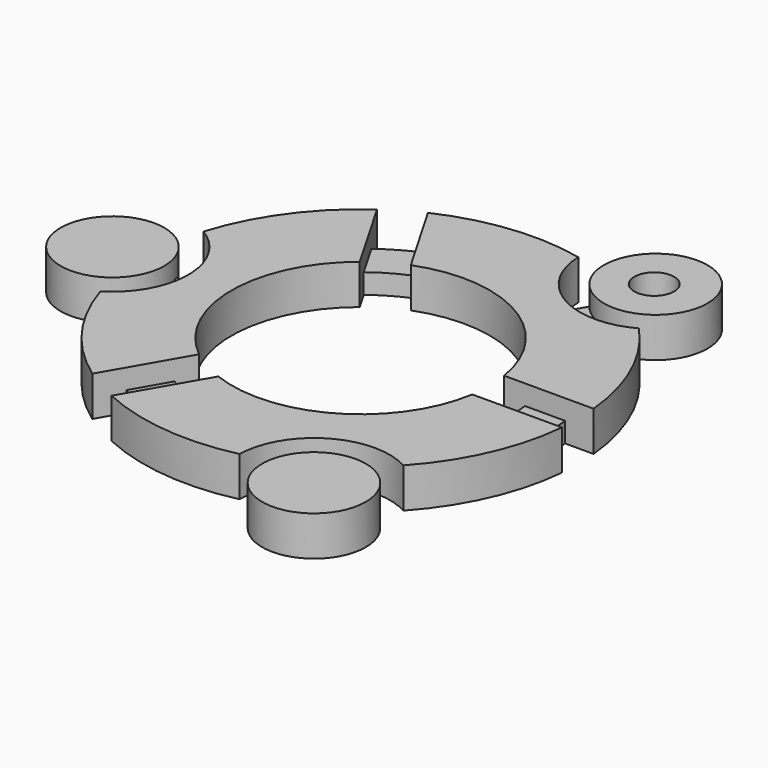
from build123d import *

# Parameters (mm, degrees)
CYLINDER008_R               = 2
CYLINDER008_DEPTH           = 10
BOX_W                       = 10
BOX_H                       = 4
BOX_DEPTH                   = 2
BOX_PLACEMENT_ANGLE         = 60
ARRAY001_COUNT              = 3
CYLINDER007_W               = 15
CYLINDER007_H               = 2
CYLINDER007_ANGLE           = 60
CYLINDER007_PLACEMENT_ANGLE = 95
CYLINDER006_W               = 19
CYLINDER006_H               = 2
CYLINDER006_ANGLE           = 60
CYLINDER006_PLACEMENT_ANGLE = 95
CYLINDER005_W               = 15
CYLINDER005_H               = 2
CYLINDER005_ANGLE           = 60
CYLINDER005_PLACEMENT_ANGLE = 211
CYLINDER004_W               = 19
CYLINDER004_H               = 2
CYLINDER004_ANGLE           = 60
CYLINDER004_PLACEMENT_ANGLE = 211
CYLINDER003_W               = 15
CYLINDER003_H               = 2
CYLINDER003_ANGLE           = 60
CYLINDER003_PLACEMENT_ANGLE = -35
CYLINDER002_W               = 19
CYLINDER002_H               = 2
CYLINDER002_ANGLE           = 60
CYLINDER002_PLACEMENT_ANGLE = -35
SKETCH001_R                 = 5.198312
PAD_DEPTH                   = 4
ARRAY_COUNT                 = 3


with BuildPart() as cilindro007:
    # Cylinder008 → Cylinder008 (new body)
    with BuildSketch(Plane(origin=(-0.25, 15, -4), x_dir=(1, 0, 0), z_dir=(0, 0, 1))):
        Circle(CYLINDER008_R)
    extrude(amount=CYLINDER008_DEPTH)


with BuildPart() as array001:
    # Box → Box (new body)
    with BuildSketch(Plane.XY):
        with Locations((5, 2)):
            Rectangle(BOX_W, BOX_H)
    extrude(amount=BOX_DEPTH)


with BuildPart() as array001_1:
    # Box placement: moved
    add(array001.part.moved(Location((-3, 6, 0))).rotate(Axis((-3, 6, 0), (0, 0, 1)), BOX_PLACEMENT_ANGLE))

    # Array001: Array001 ×3 about axis
    array001_axis = Axis((-12.5, -6.5, 0), (0, 0, 1))


with BuildPart() as array001_2:
    add(array001_1.part)
    for i in range(1, ARRAY001_COUNT):
        add(array001_1.part.rotate(array001_axis, i * 360 / ARRAY001_COUNT))


with BuildPart() as cilindro006:
    # Cylinder007 → Cylinder007 (revolve)
    with BuildSketch(Plane.XZ):
        with Locations((7.5, 1)):
            Rectangle(CYLINDER007_W, CYLINDER007_H)
    revolve(axis=Axis((0, 0, 0), (0, 0, 1)), revolution_arc=CYLINDER007_ANGLE)


with BuildPart() as cilindro006_1:
    # Cylinder007 placement: moved
    add(cilindro006.part.moved(Location((-12.5, -6.5, 0))).rotate(Axis((-12.5, -6.5, 0), (0, 0, 1)), CYLINDER007_PLACEMENT_ANGLE))


with BuildPart() as cut003:
    # Cylinder006 → Cylinder006 (revolve)
    with BuildSketch(Plane.XZ):
        with Locations((9.5, 1)):
            Rectangle(CYLINDER006_W, CYLINDER006_H)
    revolve(axis=Axis((0, 0, 0), (0, 0, 1)), revolution_arc=CYLINDER006_ANGLE)


with BuildPart() as cut003_1:
    # Cylinder006 placement: moved
    add(cut003.part.moved(Location((-12.5, -6.5, 0))).rotate(Axis((-12.5, -6.5, 0), (0, 0, 1)), CYLINDER006_PLACEMENT_ANGLE))

    # Cut003: cut Cilindro006
    add(cilindro006_1.part, mode=Mode.SUBTRACT)


with BuildPart() as cilindro004:
    # Cylinder005 → Cylinder005 (revolve)
    with BuildSketch(Plane.XZ):
        with Locations((7.5, 1)):
            Rectangle(CYLINDER005_W, CYLINDER005_H)
    revolve(axis=Axis((0, 0, 0), (0, 0, 1)), revolution_arc=CYLINDER005_ANGLE)


with BuildPart() as cilindro004_1:
    # Cylinder005 placement: moved
    add(cilindro004.part.moved(Location((-12.5, -6.5, 0))).rotate(Axis((-12.5, -6.5, 0), (0, 0, 1)), CYLINDER005_PLACEMENT_ANGLE))


with BuildPart() as cut002:
    # Cylinder004 → Cylinder004 (revolve)
    with BuildSketch(Plane.XZ):
        with Locations((9.5, 1)):
            Rectangle(CYLINDER004_W, CYLINDER004_H)
    revolve(axis=Axis((0, 0, 0), (0, 0, 1)), revolution_arc=CYLINDER004_ANGLE)


with BuildPart() as cut002_1:
    # Cylinder004 placement: moved
    add(cut002.part.moved(Location((-12.5, -6.5, 0))).rotate(Axis((-12.5, -6.5, 0), (0, 0, 1)), CYLINDER004_PLACEMENT_ANGLE))

    # Cut002: cut Cilindro004
    add(cilindro004_1.part, mode=Mode.SUBTRACT)


with BuildPart() as cilindro002:
    # Cylinder003 → Cylinder003 (revolve)
    with BuildSketch(Plane.XZ):
        with Locations((7.5, 1)):
            Rectangle(CYLINDER003_W, CYLINDER003_H)
    revolve(axis=Axis((0, 0, 0), (0, 0, 1)), revolution_arc=CYLINDER003_ANGLE)


with BuildPart() as cilindro002_1:
    # Cylinder003 placement: moved
    add(cilindro002.part.moved(Location((-12.5, -6.5, 0))).rotate(Axis((-12.5, -6.5, 0), (0, 0, 1)), CYLINDER003_PLACEMENT_ANGLE))


with BuildPart() as fusion:
    # Cylinder002 → Cylinder002 (revolve)
    with BuildSketch(Plane.XZ):
        with Locations((9.5, 1)):
            Rectangle(CYLINDER002_W, CYLINDER002_H)
    revolve(axis=Axis((0, 0, 0), (0, 0, 1)), revolution_arc=CYLINDER002_ANGLE)


with BuildPart() as fusion_1:
    # Cylinder002 placement: moved
    add(fusion.part.moved(Location((-12.5, -6.5, 0))).rotate(Axis((-12.5, -6.5, 0), (0, 0, 1)), CYLINDER002_PLACEMENT_ANGLE))

    # Cut001: cut Cilindro002
    add(cilindro002_1.part, mode=Mode.SUBTRACT)

    # Fusion: union Cut003, Cut002
    add(cut003_1.part)
    add(cut002_1.part)


with BuildPart() as cut004:
    # Sketch001 → Pad (new body)
    with BuildSketch(Plane.XY):
        with Locations((-0.149011, 15.05543)):
            Circle(SKETCH001_R)
        with BuildLine():
            ThreePointArc((0.265943, -4.477766), (-6.03588, 4.72153), (-17.151991, 5.600213))
            Line((-21.656212, 13.370653), (-17.151991, 5.600213))
            ThreePointArc((-7.750284, 14.849869), (-14.824787, 15.252835), (-21.656212, 13.370653))
            ThreePointArc((-7.750284, 14.849869), (-3.935994, 8.461466), (3.504091, 8.386363))
            ThreePointArc((9.244463, -4.477766), (7.439427, 2.429601), (3.504091, 8.386363))
            Line((0.265943, -4.477766), (9.244463, -4.477766))
        make_face()
    extrude(amount=PAD_DEPTH)

    # Array: Cut004 ×3 about axis
    array_axis = Axis((-12.5, -6.5, 0), (0, 0, 1))


with BuildPart() as cut004_1:
    add(cut004.part)
    for i in range(1, ARRAY_COUNT):
        add(cut004.part.rotate(array_axis, i * 360 / ARRAY_COUNT))

    # Fusion001: union Fusion
    add(fusion_1.part)

    # Fusion002: union Array001
    add(array001_2.part)

    # Cut004: cut Cilindro007
    add(cilindro007.part, mode=Mode.SUBTRACT)


with BuildPart() as cut004_2:
    # Cut004 placement: moved
    add(cut004_1.part.moved(Location((0, 1, 0))))


solid = cut004_2.part
